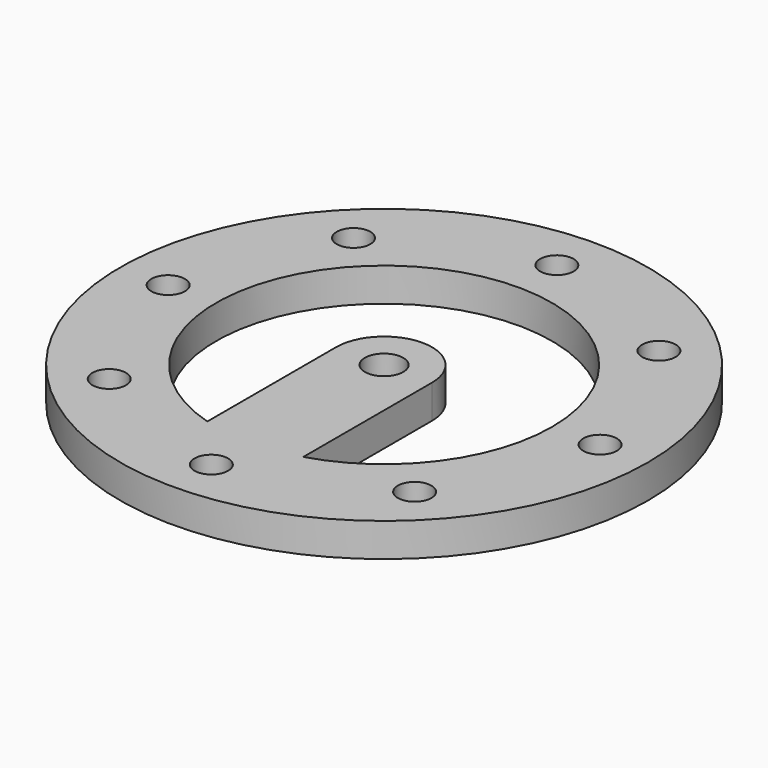
from build123d import *

# Parameters (mm, degrees)
F0_R     = 55
F0_R_2   = 3.5
F0_R_3   = 4
F1_DEPTH = 7


with BuildPart() as f1:
    # F0 (on Top) → F1 (new body)
    with BuildSketch(Plane.XY):
        Circle(F0_R)
        with Locations((-31.819805, -31.819805)):
            Circle(F0_R_2, mode=Mode.SUBTRACT)
        with Locations((0, -45)):
            Circle(F0_R_2, mode=Mode.SUBTRACT)
        with Locations((31.819805, -31.819805)):
            Circle(F0_R_2, mode=Mode.SUBTRACT)
        with Locations((-45, 0)):
            Circle(F0_R_2, mode=Mode.SUBTRACT)
        with Locations((-31.819805, 31.819805)):
            Circle(F0_R_2, mode=Mode.SUBTRACT)
        with BuildLine():
            ThreePointArc((-10, -33.54102), (-20.916501, 28.06243), (35, 0))
            ThreePointArc((35, 0), (28.06243, -20.916501), (10, -33.54102))
            ThreePointArc((10, -33.54102), (0, -35), (-10, -33.54102))
        make_face(mode=Mode.SUBTRACT)
        with Locations((45, 0)):
            Circle(F0_R_2, mode=Mode.SUBTRACT)
        with Locations((0, 45)):
            Circle(F0_R_2, mode=Mode.SUBTRACT)
        with Locations((31.819805, 31.819805)):
            Circle(F0_R_2, mode=Mode.SUBTRACT)
        with BuildLine():
            ThreePointArc((10, 0), (0, 10), (-10, 0))
            ThreePointArc((-10, 0), (0, -10), (10, 0))
        make_face()
        Circle(F0_R_3, mode=Mode.SUBTRACT)
        with BuildLine():
            Line((-10, 0), (-10, -33.54102))
            ThreePointArc((-10, -33.54102), (0, -35), (10, -33.54102))
            Line((10, -33.54102), (10, 0))
            ThreePointArc((10, 0), (0, -10), (-10, 0))
        make_face()
    extrude(amount=F1_DEPTH)


solid = f1.part
